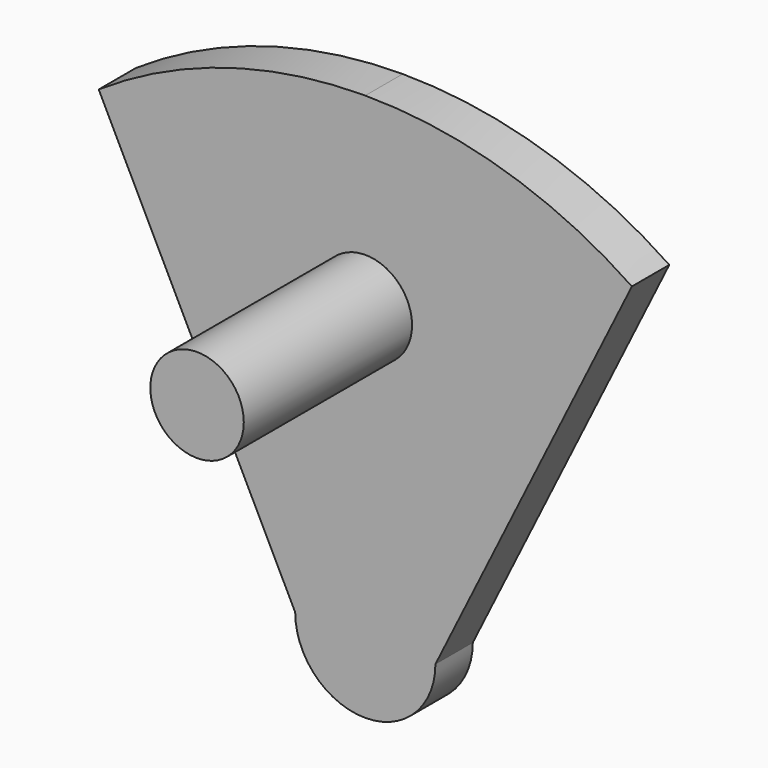
from build123d import *

# Parameters (mm, degrees)
F1_DEPTH = 2
F2_R     = 2
F3_DEPTH = 9
F4_R     = 3
F5_DEPTH = 2


with BuildPart() as f1:
    # F0 (on Front) → F1 (new body)
    with BuildSketch(Plane.XZ):
        with BuildLine():
            Line((-11.4086838439, 16.9650800526), (-3, 0))
            Line((-3, 0), (3, 0))
            Line((3, 0), (11.4086838439, 16.9650800526))
            ThreePointArc((11.4086838439, 16.9650800526), (5.9637128105, 19.5552074332), (0, 20.444363728))
            ThreePointArc((0, 20.444363728), (-5.9637128105, 19.5552074332), (-11.4086838439, 16.9650800526))
        make_face()
    extrude(amount=F1_DEPTH)

    # F2 (on face) → F3 (join)
    with BuildSketch(Plane.XZ.offset(2)):
        with Locations((0, 12.444363728)):
            Circle(F2_R)
    extrude(amount=F3_DEPTH)

    # F4 (on Front) → F5 (join)
    with BuildSketch(Plane.XZ):
        Circle(F4_R)
    extrude(amount=F5_DEPTH)


solid = f1.part
